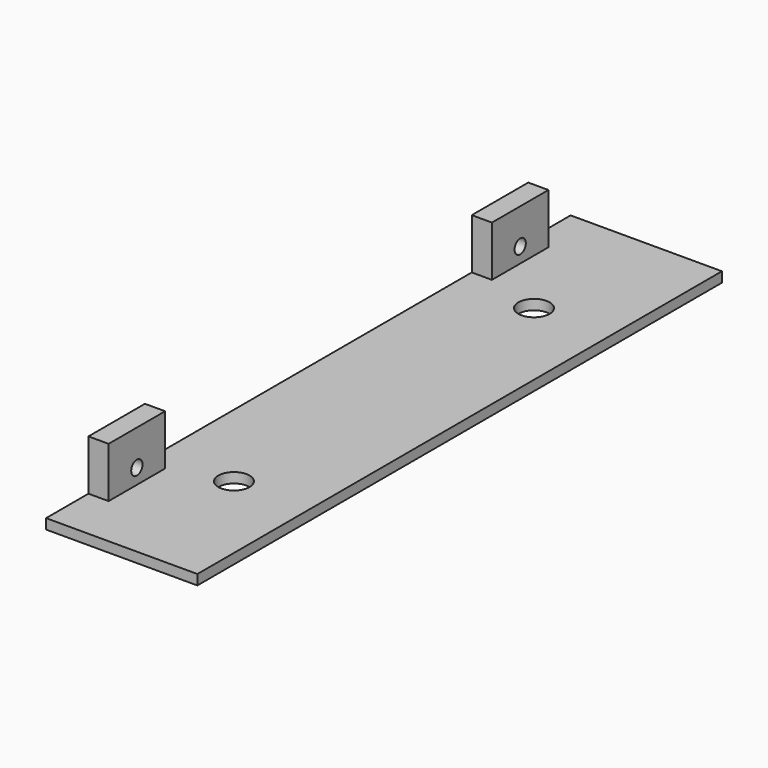
from build123d import *

# Parameters (mm, degrees)
SKETCH_W     = 30
SKETCH_H     = 130
SKETCH_R     = 3.1
PAD_DEPTH    = 2
SKETCH001_W  = 4
SKETCH001_H  = 14
PAD001_DEPTH = 10
SKETCH002_R  = 1.4
POCKET_DEPTH = 5


with BuildPart() as part:
    # Sketch → Pad (new body)
    with BuildSketch(Plane.XY):
        Rectangle(SKETCH_W, SKETCH_H)
        with Locations((0, -37.18453)):
            Circle(SKETCH_R, mode=Mode.SUBTRACT)
        with Locations((0, 37.18453)):
            Circle(SKETCH_R, mode=Mode.SUBTRACT)
    extrude(amount=PAD_DEPTH)

    # Sketch001 (on Face8 of Pad) → Pad001 (join)
    with BuildSketch(Plane.XY.offset(2)):
        with Locations((-13, 47.5)):
            Rectangle(SKETCH001_W, SKETCH001_H)
        with Locations((-13, -47.5)):
            Rectangle(SKETCH001_W, SKETCH001_H)
    extrude(amount=PAD001_DEPTH)

    # Sketch002 (on Face7 of Pad001) → Pocket (cut)
    with BuildSketch(Plane(origin=(-15, 0, 0), x_dir=(0, -1, 0), z_dir=(-1, 0, 0))):
        with Locations((-47.5, 5)):
            Circle(SKETCH002_R)
        with Locations((47.5, 5)):
            Circle(SKETCH002_R)
    extrude(amount=-POCKET_DEPTH, mode=Mode.SUBTRACT)


solid = part.part
